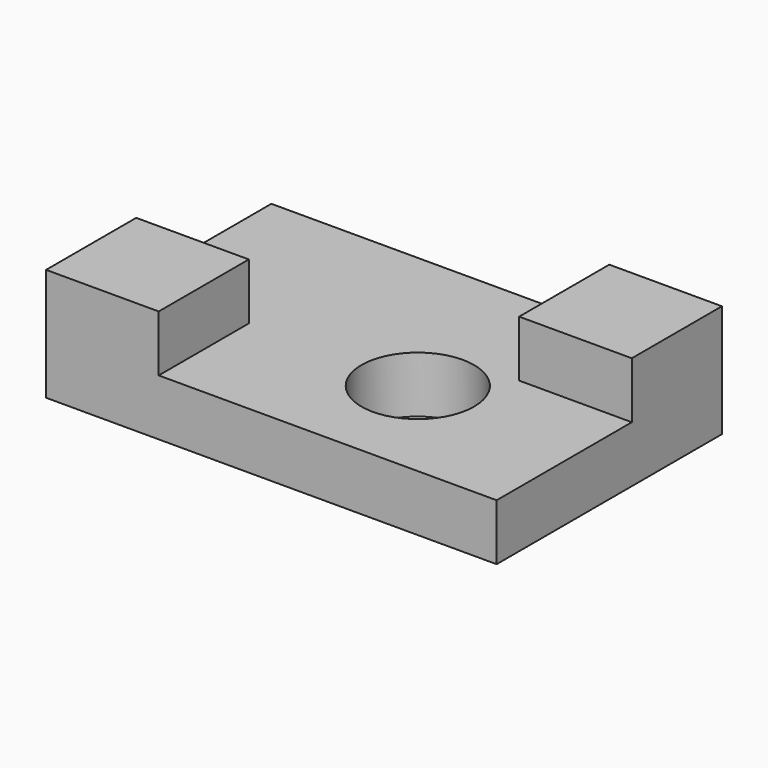
from build123d import *

# Parameters (mm, degrees)
F0_W     = 203.2
F0_H     = 127
F1_DEPTH = 25.4
F2_W     = 50.8
F2_H     = 50.8
F3_DEPTH = 25.4
F4_R     = 25.4
F5_DEPTH = 25.401


with BuildPart() as f1:
    # F0 (on Top) → F1 (new body)
    with BuildSketch(Plane.XY):
        with Locations((101.6, 63.5)):
            Rectangle(F0_W, F0_H)
    extrude(amount=F1_DEPTH)

    # F2 (on face) → F3 (join)
    with BuildSketch(Plane.XY.offset(25.4)):
        with Locations((25.4, 25.4)):
            Rectangle(F2_W, F2_H)
        with Locations((177.8, 101.6)):
            Rectangle(F2_W, F2_H)
    extrude(amount=F3_DEPTH)

    # F4 (on face) → F5 (cut, through all)
    with BuildSketch(Plane.XY.offset(25.4)):
        with Locations((127, 50.8)):
            Circle(F4_R)
    extrude(amount=-F5_DEPTH, mode=Mode.SUBTRACT)


solid = f1.part
